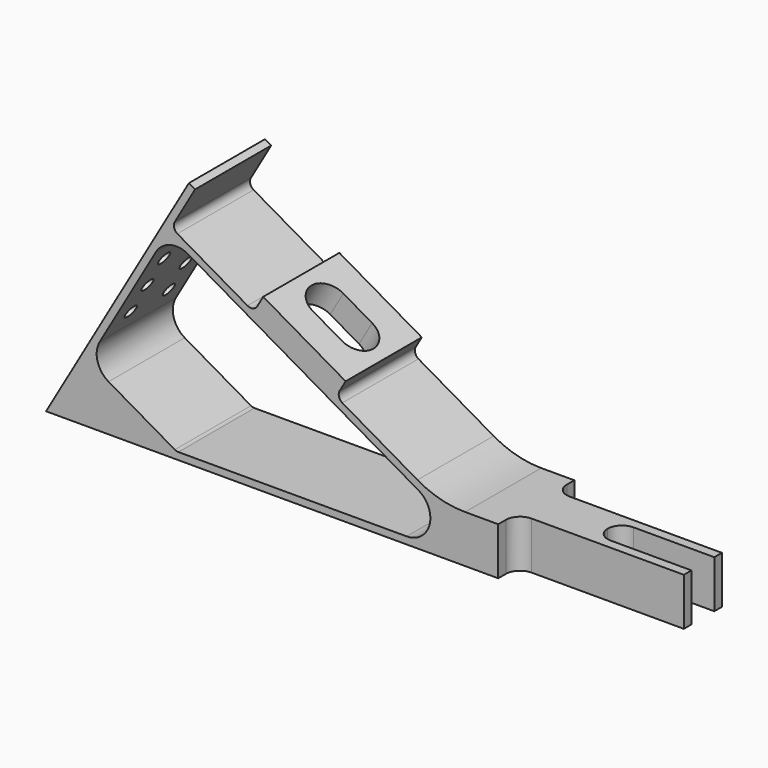
from build123d import *

# Parameters (mm, degrees)
F1_DEPTH      = 10
F1_DEPTH_BACK = 10
F3_DEPTH      = 10.001
F5_DEPTH      = 5.5
F6_R          = 1.395
F7_DEPTH      = 1.5
F8_R          = 5.5
F9_DEPTH      = 2
F10_R         = 4.25
F11_DEPTH     = 110.584302492
F12_R         = 1.5
F13_R         = 20


with BuildPart() as f1:
    # F0 (on Front) → F1 (new body, two sides)
    with BuildSketch(Plane.XZ) as f1_sk:
        Polygon((30, 51.9615242271), (0, 0), (130, 0), (130, 10), (82.6794919243, 10), (60.9400542571, 22.5512701892), (62.9400542571, 26.0153718044), (45.6195461814, 36.0153718044), (43.6195461814, 32.5512701892), (26.2990381057, 42.5512701892), (31.2990381057, 51.2115242271), align=None)
        with BuildLine():
            ThreePointArc((23.0490381057, 36.9221050646), (26.0850698991, 39.2517341961), (29.8791651246, 38.7522320835))
            Line((29.8791651246, 38.7522320835), (78.2416697508, 10.8301270189))
            ThreePointArc((78.2416697508, 10.8301270189), (80.5712988822, 5.2059047745), (75.7416697508, 1.5))
            Line((75.7416697508, 1.5), (27.4019237886, 1.5))
            Line((27.4019237886, 1.5), (13.1291651246, 9.7403810568))
            ThreePointArc((13.1291651246, 9.7403810568), (10.7995359932, 12.7764128502), (11.2990381057, 16.5705080757))
            Line((11.2990381057, 16.5705080757), (23.0490381057, 36.9221050646))
        make_face(mode=Mode.SUBTRACT)
    extrude(amount=F1_DEPTH)
    extrude(f1_sk.sketch, amount=-F1_DEPTH_BACK)

    # F2 (on face) → F3 (cut, through all)
    with BuildSketch(Plane.XY.offset(10)):
        with BuildLine():
            Line((98, 5), (130, 5))
            Line((130, 5), (130, 10))
            Line((130, 10), (95, 10))
            Line((95, 10), (95, 8))
            ThreePointArc((95, 8), (95.8786796564, 5.8786796564), (98, 5))
        make_face()
        with BuildLine():
            Line((130, 0), (130, 3))
            Line((130, 3), (113, 3))
            ThreePointArc((113, 3), (110.8786796564, 2.1213203436), (110, 0))
            ThreePointArc((110, 0), (110.8786796564, -2.1213203436), (113, -3))
            Line((113, -3), (130, -3))
            Line((130, -3), (130, 0))
        make_face()
        with BuildLine():
            ThreePointArc((98, -5), (95.8786796564, -5.8786796564), (95, -8))
            Line((95, -8), (95, -10))
            Line((95, -10), (130, -10))
            Line((130, -10), (130, -5))
            Line((130, -5), (98, -5))
        make_face()
    extrude(amount=-F3_DEPTH, mode=Mode.SUBTRACT)

    # F4 (on face) → F5 (cut, through all)
    with BuildSketch(Plane(origin=(27, 0, 46.7653718044), x_dir=(0.8660254038, 0, -0.5), z_dir=(0.5, 0, 0.8660254038))):
        with BuildLine():
            Line((28, -4), (35, -4))
            ThreePointArc((35, -4), (39, 0), (35, 4))
            Line((35, 4), (28, 4))
            ThreePointArc((28, 4), (24, 0), (28, -4))
        make_face()
    extrude(amount=-F5_DEPTH, mode=Mode.SUBTRACT)

    # F6 (on face) → F7 (cut, through all)
    with BuildSketch(Plane(origin=(0, 0, 0), x_dir=(0, -1, 0), z_dir=(-0.8660254038, 0, 0.5))):
        with Locations((-5, 39)):
            Circle(F6_R)
        with Locations((5, 39)):
            Circle(F6_R)
        with Locations((-5, 32)):
            Circle(F6_R)
        with Locations((5, 32)):
            Circle(F6_R)
        with Locations((-5, 25)):
            Circle(F6_R)
        with Locations((5, 25)):
            Circle(F6_R)
    extrude(amount=-F7_DEPTH, mode=Mode.SUBTRACT)

    # F8 (on face) → F9 (cut)
    with BuildSketch(Plane(origin=(0, 0, 0), x_dir=(0, -1, 0), z_dir=(-0.8660254038, 0, 0.5))):
        with Locations((0, 7.5)):
            Circle(F8_R)
    extrude(amount=-F9_DEPTH, mode=Mode.SUBTRACT)

    # F10 (on face) → F11 (cut, through all)
    with BuildSketch(Plane(origin=(1.7320508076, 0, -1), x_dir=(0, -1, 0), z_dir=(-0.8660254038, 0, 0.5))):
        with Locations((0, 7.5)):
            Circle(F10_R)
    extrude(amount=-F11_DEPTH, mode=Mode.SUBTRACT)

    # F12
    f12_edges = [f1.edges().sort_by_distance(p)[0] for p in [
        (26.299038, 0, 42.55127),
        (60.940054, 0, 22.55127),
        (27.401924, 0, 1.5),
        (43.619546, 0, 32.55127),
    ]]
    fillet(f12_edges, radius=F12_R)

    # F13
    f13_edges = [f1.edges().sort_by_distance(p)[0] for p in [
        (82.679492, 0, 10),
    ]]
    fillet(f13_edges, radius=F13_R)


solid = f1.part
